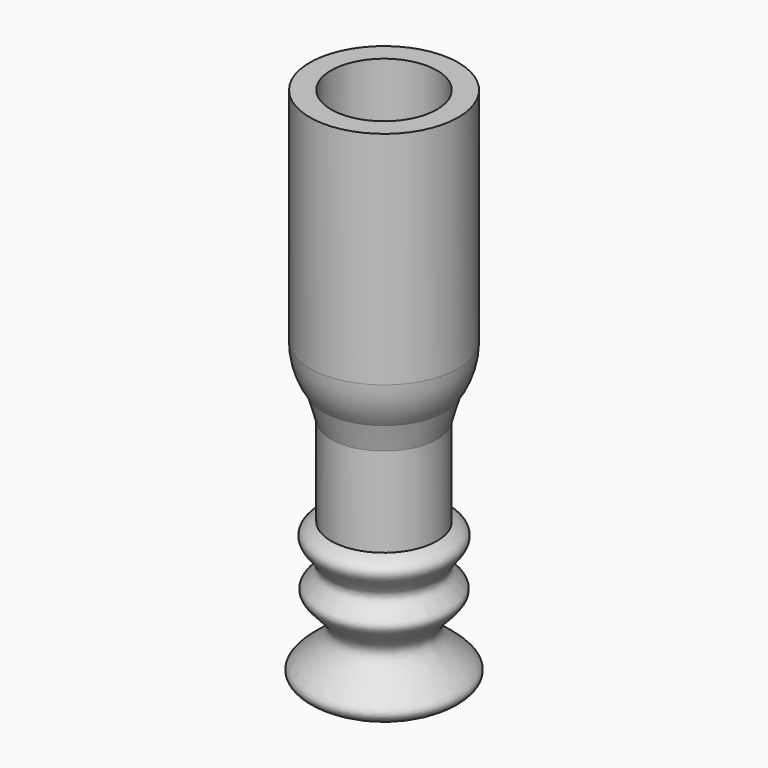
from build123d import *


with BuildPart() as f1:
    # F0 (on Front) → F1 (revolve)
    with BuildSketch(Plane.XZ):
        with BuildLine():
            Line((-26.0182898492, 5.7244500987), (-24.3058805849, 11.7220224141))
            ThreePointArc((-24.3058805849, 11.7220224141), (-21.979591378, 16.3704601156), (-21.1788231733, 21.506447345))
            Line((-21.1788231733, 21.506447345), (-21.1788231733, 71.7382878065))
            Line((-21.1788231733, 71.7382878065), (-26.0182898492, 71.7382878065))
            Line((-26.0182898492, 71.7382878065), (-26.0182898492, 21.506447345))
            Line((-26.0182898492, 21.506447345), (-38.0498692393, 21.506447345))
            Line((-38.0498692393, 21.506447345), (-38.0498692393, -48.8782897592))
            Line((-38.0498692393, -48.8782897592), (-27.5222361088, -48.8782897592))
            add(Edge.make_bspline(
                [(-26.0182898492, -14.5882898942), (-23.305044616, -15.5524146318), (-21.4055576786, -18.0960485839), (-28.7584352596, -23.8301011929), (-19.316895301, -28.1156810521), (-33.3537949524, -35.970450647), (-15.7526736038, -44.0802165493), (-23.6606204493, -47.2933194957), (-27.5222361088, -48.8782897592)],
                knots=[0, 0, 0, 0, 0.1337832997, 0.2873849573, 0.4311076344, 0.6155235378, 0.8189732636, 1, 1, 1, 1], degree=3))
            Line((-26.0182898492, -14.5882898942), (-26.0182898492, 5.7244500987))
        make_face()
    revolve(axis=Axis((-38.0498692393, 0, -13.6859212071), (0, 0, -1)))


solid = f1.part
